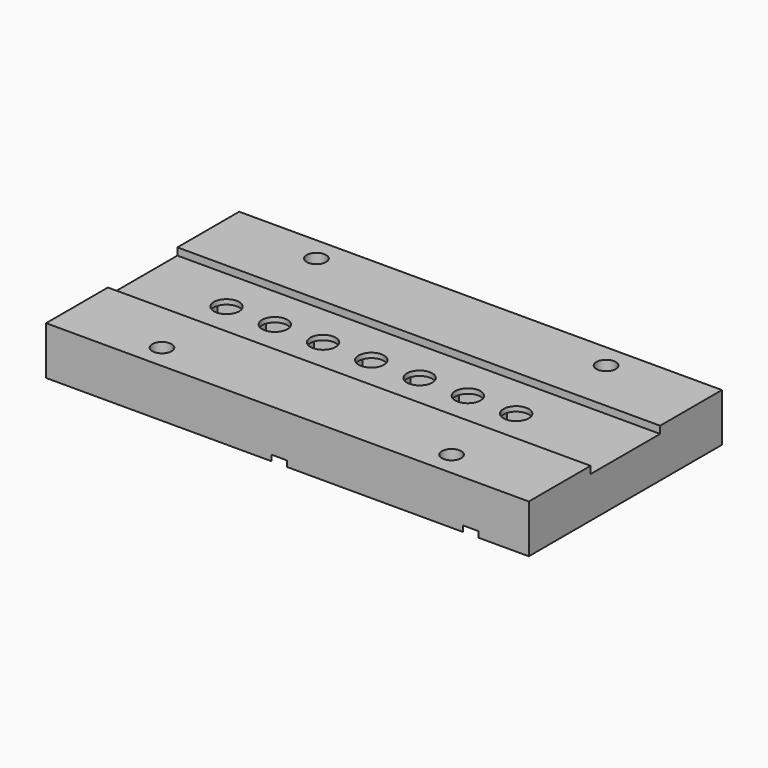
from build123d import *

# Parameters (mm, degrees)
SKETCH_W             = 100
SKETCH_H             = 50
PAD_DEPTH            = 10
SKETCH001_W          = 100
SKETCH001_H          = 18
POCKET_DEPTH         = 1.5
SKETCH002_R          = 2.625
POCKET001_DEPTH      = 8.501
POCKET002_DEPTH      = 7.5
SKETCH004_W          = 77
SKETCH004_H          = 15
PAD001_DEPTH         = 4.5
SKETCH005_R          = 5.25
POCKET003_DEPTH      = 1.2
SKETCH006_R          = 3.5
SKETCH006_R_2        = 2.5
PAD002_DEPTH         = 3
SKETCH008_R          = 2
POCKET005_DEPTH      = 5
SKETCH009_R          = 2
POCKET006_DEPTH      = 5
CHAMFER_SIZE         = 0.49
POCKET007_DEPTH      = 2.15
POCKET007_DEPTH_BACK = 0.85
SKETCH011_R          = 2
POCKET008_DEPTH      = 6
POCKET009_DEPTH      = 3


with BuildPart() as part:
    # Sketch → Pad (new body)
    with BuildSketch(Plane.XY):
        Rectangle(SKETCH_W, SKETCH_H)
    extrude(amount=PAD_DEPTH)

    # Sketch001 (on Face6 of Pad) → Pocket (cut)
    with BuildSketch(Plane.XY.offset(10)):
        Rectangle(SKETCH001_W, SKETCH001_H)
    extrude(amount=-POCKET_DEPTH, mode=Mode.SUBTRACT)

    # Sketch002 (on Face7 of Pocket) → Pocket001 (cut, through all)
    with BuildSketch(Plane.XY.offset(8.5)):
        with Locations((-22.625, 0)):
            Circle(SKETCH002_R)
        with Locations((-12.625, 0)):
            Circle(SKETCH002_R)
        with Locations((-2.625, 0)):
            Circle(SKETCH002_R)
        with Locations((7.375, 0)):
            Circle(SKETCH002_R)
        with Locations((17.375, 0)):
            Circle(SKETCH002_R)
        with Locations((27.375, 0)):
            Circle(SKETCH002_R)
        with Locations((-32.625, 0)):
            Circle(SKETCH002_R)
    extrude(amount=-POCKET001_DEPTH, mode=Mode.SUBTRACT)

    # Sketch003 (on Face4 of Pocket001) → Pocket002 (cut)
    with BuildSketch(Plane(origin=(0, 0, 0), x_dir=(1, 0, 0), z_dir=(0, 0, -1))):
        Polygon((-32.625, -4), (-29.160898, -2), (-29.160898, 2), (-32.625, 4), (-36.089102, 2), (-36.089102, -2), align=None)
        Polygon((-22.625, -4), (-19.160898, -2), (-19.160898, 2), (-22.625, 4), (-26.089102, 2), (-26.089102, -2), align=None)
        Polygon((-12.625, -4), (-9.160898, -2), (-9.160898, 2), (-12.625, 4), (-16.089102, 2), (-16.089102, -2), align=None)
        Polygon((-2.625, -4), (0.839102, -2), (0.839102, 2), (-2.625, 4), (-6.089102, 2), (-6.089102, -2), align=None)
        Polygon((7.375, -4), (10.839102, -2), (10.839102, 2), (7.375, 4), (3.910898, 2), (3.910898, -2), align=None)
        Polygon((17.375, -4), (20.839102, -2), (20.839102, 2), (17.375, 4), (13.910898, 2), (13.910898, -2), align=None)
        Polygon((27.375, -4), (30.839102, -2), (30.839102, 2), (27.375, 4), (23.910898, 2), (23.910898, -2), align=None)
    extrude(amount=-POCKET002_DEPTH, mode=Mode.SUBTRACT)

    # Sketch004 (on DatumPlane) → Pad001 (join)
    with BuildSketch(Plane(origin=(0, 0, 4.5), x_dir=(1, 0, 0), z_dir=(0, 0, -1))):
        Rectangle(SKETCH004_W, SKETCH004_H)
    extrude(amount=PAD001_DEPTH)

    # Sketch005 (on Face4 of Pad001) → Pocket003 (cut)
    with BuildSketch(Plane(origin=(0, 0, 0), x_dir=(1, 0, 0), z_dir=(0, 0, -1))):
        with Locations((38, 20)):
            Circle(SKETCH005_R)
        with Locations((38, -20)):
            Circle(SKETCH005_R)
        with Locations((-1.7, 20)):
            Circle(SKETCH005_R)
        with Locations((-1.7, -20)):
            Circle(SKETCH005_R)
    extrude(amount=-POCKET003_DEPTH, mode=Mode.SUBTRACT)

    # Sketch006 (on Face4 of Pocket003) → Pad002 (join)
    with BuildSketch(Plane(origin=(0, 0, 1.2), x_dir=(1, 0, 0), z_dir=(0, 0, -1))):
        with Locations((-1.7, 0)):
            Circle(SKETCH006_R)
        with Locations((38, 0)):
            Circle(SKETCH006_R_2)
    extrude(amount=PAD002_DEPTH)

    # Sketch008 → Pocket005 (cut)
    with BuildSketch(Plane(origin=(0, 0, -1.8), x_dir=(1, 0, 0), z_dir=(0, 0, -1))):
        with Locations((-1.7, 0)):
            Circle(SKETCH008_R)
        with Locations((38, 0)):
            Circle(SKETCH008_R)
    extrude(amount=-POCKET005_DEPTH, mode=Mode.SUBTRACT)

    # Sketch009 (on Face33 of Pad002) → Pocket006 (cut)
    with BuildSketch(Plane(origin=(0, 0, -1.8), x_dir=(1, 0, 0), z_dir=(0, 0, -1))):
        with Locations((-1.7, 0)):
            Circle(SKETCH009_R)
        with Locations((38, 0)):
            Circle(SKETCH009_R)
    extrude(amount=-POCKET006_DEPTH, mode=Mode.SUBTRACT)

    # Chamfer
    chamfer_edges = [part.edges().sort_by_distance(p)[0] for p in [
        (-5.2, 0, -1.8),
        (35.5, 0, -1.8),
    ]]
    chamfer(chamfer_edges, length=CHAMFER_SIZE)

    # Sketch010 (on Face37 of Chamfer) → Pocket007 (cut, two sides)
    with BuildSketch(Plane(origin=(0, 0, 3.2), x_dir=(1, 0, 0), z_dir=(0, 0, -1))) as pocket007_sk:
        Polygon((-1.7, -4), (1.764102, -2), (1.764102, 2), (-1.7, 4), (-5.164102, 2), (-5.164102, -2), align=None)
        Polygon((34.535898, -2), (38, -4), (41.464102, -2), (41.464102, 2), (38, 4), (34.535898, 2), align=None)
    extrude(amount=POCKET007_DEPTH, mode=Mode.SUBTRACT)
    extrude(pocket007_sk.sketch, amount=-POCKET007_DEPTH_BACK, mode=Mode.SUBTRACT)

    # Sketch011 (on Face33 of Pocket007) → Pocket008 (cut)
    with BuildSketch(Plane.XY.offset(10)):
        with Locations((-30, 20)):
            Circle(SKETCH011_R)
        with Locations((30, 20)):
            Circle(SKETCH011_R)
        with Locations((30, -20)):
            Circle(SKETCH011_R)
        with Locations((-30, -20)):
            Circle(SKETCH011_R)
    extrude(amount=-POCKET008_DEPTH, mode=Mode.SUBTRACT)

    # Sketch012 (on Face66 of Pocket008) → Pocket009 (cut)
    with BuildSketch(Plane.XY.offset(4)):
        Polygon((-30, 16), (-26.535898, 18), (-26.535898, 22), (-30, 24), (-33.464102, 22), (-33.464102, 18), align=None)
        Polygon((30, 16), (33.464102, 18), (33.464102, 22), (30, 24), (26.535898, 22), (26.535898, 18), align=None)
        Polygon((-30, -24), (-26.535898, -22), (-26.535898, -18), (-30, -16), (-33.464102, -18), (-33.464102, -22), align=None)
        Polygon((30, -24), (33.464102, -22), (33.464102, -18), (30, -16), (26.535898, -18), (26.535898, -22), align=None)
    extrude(amount=POCKET009_DEPTH, mode=Mode.SUBTRACT)


solid = part.part
